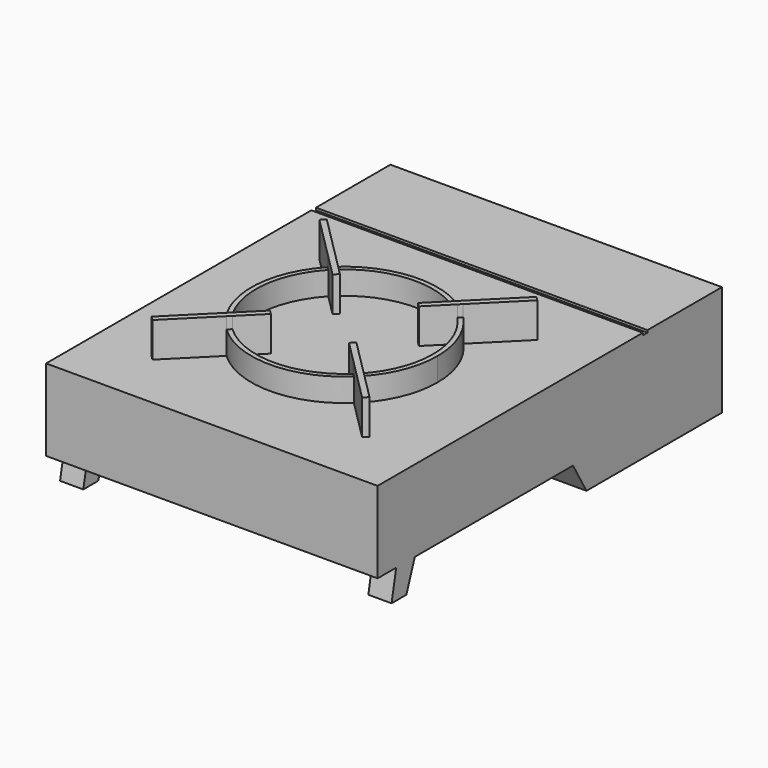
from build123d import *

# Parameters (mm, degrees)
F0_W      = 285
F0_H      = 370
F1_DEPTH  = 95
F2_W      = 285
F2_H      = 5
F3_DEPTH  = 2
F5_DEPTH  = 30
F6_DEPTH  = 20
F8_DEPTH  = 406
F9_W      = 245
F9_H      = 25
F10_DEPTH = 81


with BuildPart() as f1:
    # F0 (on Top) → F1 (new body)
    with BuildSketch(Plane.XY):
        with Locations((-142.5, 185)):
            Rectangle(F0_W, F0_H)
    extrude(amount=F1_DEPTH)

    # F2 (on face) → F3 (cut)
    with BuildSketch(Plane.XY.offset(95)):
        with Locations((-142.5, 287.5)):
            Rectangle(F2_W, F2_H)
    extrude(amount=-F3_DEPTH, mode=Mode.SUBTRACT)

    # F4 (on face) → F5 (join)
    with BuildSketch(Plane.XY.offset(95)):
        with BuildLine():
            Line((-232.6391152703, 48.8253508238), (-197.2731474365, 84.1913186575))
            ThreePointArc((-197.2731474365, 84.1913186575), (-199.0685424949, 85.9314575051), (-200.8086813425, 87.7268525635))
            Line((-200.8086813425, 87.7268525635), (-236.1746491762, 52.3608847297))
            Line((-236.1746491762, 52.3608847297), (-232.6391152703, 48.8253508238))
        make_face()
        with BuildLine():
            ThreePointArc((-200.8086813425, 87.7268525635), (-199.0685424949, 85.9314575051), (-197.2731474365, 84.1913186575))
            Line((-197.2731474365, 84.1913186575), (-194.4432654333, 87.0212006608))
            ThreePointArc((-194.4432654333, 87.0212006608), (-196.2401153702, 88.7598846298), (-197.9787993392, 90.5567345667))
            Line((-197.9787993392, 90.5567345667), (-200.8086813425, 87.7268525635))
        make_face()
        with BuildLine():
            ThreePointArc((-197.9787993392, 90.5567345667), (-196.2401153702, 88.7598846298), (-194.4432654333, 87.0212006608))
            Line((-194.4432654333, 87.0212006608), (-176.0875721064, 105.3768939877))
            Line((-176.0875721064, 105.3768939877), (-179.6231060123, 108.9124278936))
            Line((-179.6231060123, 108.9124278936), (-197.9787993392, 90.5567345667))
        make_face()
        with BuildLine():
            ThreePointArc((-90.5567345667, 87.0212006608), (-88.7598846298, 88.7598846298), (-87.0212006608, 90.5567345667))
            Line((-87.0212006608, 90.5567345667), (-105.3768939877, 108.9124278936))
            Line((-105.3768939877, 108.9124278936), (-108.9124278936, 105.3768939877))
            Line((-108.9124278936, 105.3768939877), (-90.5567345667, 87.0212006608))
        make_face()
        with BuildLine():
            ThreePointArc((-87.7268525635, 84.1913186575), (-85.9314575051, 85.9314575051), (-84.1913186575, 87.7268525635))
            Line((-84.1913186575, 87.7268525635), (-87.0212006608, 90.5567345667))
            ThreePointArc((-87.0212006608, 90.5567345667), (-88.7598846298, 88.7598846298), (-90.5567345667, 87.0212006608))
            Line((-90.5567345667, 87.0212006608), (-87.7268525635, 84.1913186575))
        make_face()
        with BuildLine():
            Line((-48.8253508238, 52.3608847297), (-84.1913186575, 87.7268525635))
            ThreePointArc((-84.1913186575, 87.7268525635), (-85.9314575051, 85.9314575051), (-87.7268525635, 84.1913186575))
            Line((-87.7268525635, 84.1913186575), (-52.3608847297, 48.8253508238))
            Line((-52.3608847297, 48.8253508238), (-48.8253508238, 52.3608847297))
        make_face()
        with BuildLine():
            ThreePointArc((-200.8086813425, 197.2731474365), (-199.0685424949, 199.0685424949), (-197.2731474365, 200.8086813425))
            Line((-197.2731474365, 200.8086813425), (-232.6391152703, 236.1746491762))
            Line((-232.6391152703, 236.1746491762), (-236.1746491762, 232.6391152703))
            Line((-236.1746491762, 232.6391152703), (-200.8086813425, 197.2731474365))
        make_face()
        with BuildLine():
            Line((-194.4432654333, 197.9787993392), (-197.2731474365, 200.8086813425))
            ThreePointArc((-197.2731474365, 200.8086813425), (-199.0685424949, 199.0685424949), (-200.8086813425, 197.2731474365))
            Line((-200.8086813425, 197.2731474365), (-197.9787993392, 194.4432654333))
            ThreePointArc((-197.9787993392, 194.4432654333), (-196.2401153702, 196.2401153702), (-194.4432654333, 197.9787993392))
        make_face()
        with BuildLine():
            Line((-176.0875721064, 179.6231060123), (-194.4432654333, 197.9787993392))
            ThreePointArc((-194.4432654333, 197.9787993392), (-196.2401153702, 196.2401153702), (-197.9787993392, 194.4432654333))
            Line((-197.9787993392, 194.4432654333), (-179.6231060123, 176.0875721064))
            Line((-179.6231060123, 176.0875721064), (-176.0875721064, 179.6231060123))
        make_face()
        with BuildLine():
            ThreePointArc((-87.7268525635, 200.8086813425), (-85.9314575051, 199.0685424949), (-84.1913186575, 197.2731474365))
            Line((-84.1913186575, 197.2731474365), (-48.8253508238, 232.6391152703))
            Line((-48.8253508238, 232.6391152703), (-52.3608847297, 236.1746491762))
            Line((-52.3608847297, 236.1746491762), (-87.7268525635, 200.8086813425))
        make_face()
        with BuildLine():
            Line((-87.0212006608, 194.4432654333), (-84.1913186575, 197.2731474365))
            ThreePointArc((-84.1913186575, 197.2731474365), (-85.9314575051, 199.0685424949), (-87.7268525635, 200.8086813425))
            Line((-87.7268525635, 200.8086813425), (-90.5567345667, 197.9787993392))
            ThreePointArc((-90.5567345667, 197.9787993392), (-88.7598846298, 196.2401153702), (-87.0212006608, 194.4432654333))
        make_face()
        with BuildLine():
            Line((-105.3768939877, 176.0875721064), (-87.0212006608, 194.4432654333))
            ThreePointArc((-87.0212006608, 194.4432654333), (-88.7598846298, 196.2401153702), (-90.5567345667, 197.9787993392))
            Line((-90.5567345667, 197.9787993392), (-108.9124278936, 179.6231060123))
            Line((-108.9124278936, 179.6231060123), (-105.3768939877, 176.0875721064))
        make_face()
    extrude(amount=F5_DEPTH)

    # F4 (on face) → F6 (join)
    with BuildSketch(Plane.XY.offset(95)):
        with BuildLine():
            ThreePointArc((-197.2731474365, 84.1913186575), (-142.5, 62.5), (-87.7268525635, 84.1913186575))
            Line((-87.7268525635, 84.1913186575), (-90.5567345667, 87.0212006608))
            ThreePointArc((-90.5567345667, 87.0212006608), (-142.5, 66.5), (-194.4432654333, 87.0212006608))
            Line((-194.4432654333, 87.0212006608), (-197.2731474365, 84.1913186575))
        make_face()
        with BuildLine():
            Line((-197.9787993392, 194.4432654333), (-200.8086813425, 197.2731474365))
            ThreePointArc((-200.8086813425, 197.2731474365), (-222.5, 142.5), (-200.8086813425, 87.7268525635))
            Line((-200.8086813425, 87.7268525635), (-197.9787993392, 90.5567345667))
            ThreePointArc((-197.9787993392, 90.5567345667), (-218.5, 142.5), (-197.9787993392, 194.4432654333))
        make_face()
        with BuildLine():
            Line((-90.5567345667, 197.9787993392), (-87.7268525635, 200.8086813425))
            ThreePointArc((-87.7268525635, 200.8086813425), (-142.5, 222.5), (-197.2731474365, 200.8086813425))
            Line((-197.2731474365, 200.8086813425), (-194.4432654333, 197.9787993392))
            ThreePointArc((-194.4432654333, 197.9787993392), (-142.5, 218.5), (-90.5567345667, 197.9787993392))
        make_face()
        with BuildLine():
            ThreePointArc((-84.1913186575, 87.7268525635), (-68.1202497067, 113.0440541435), (-62.5, 142.5))
            ThreePointArc((-62.5, 142.5), (-68.1202497067, 171.9559458565), (-84.1913186575, 197.2731474365))
            Line((-84.1913186575, 197.2731474365), (-87.0212006608, 194.4432654333))
            ThreePointArc((-87.0212006608, 194.4432654333), (-71.8162368369, 170.4250000019), (-66.5, 142.5))
            ThreePointArc((-66.5, 142.5), (-71.8162368369, 114.5749999981), (-87.0212006608, 90.5567345667))
            Line((-87.0212006608, 90.5567345667), (-84.1913186575, 87.7268525635))
        make_face()
    extrude(amount=F6_DEPTH)

    # F7 (on face) → F8 (cut)
    with BuildSketch(Plane.YZ):
        Polygon((0, 0), (15, 0), (20, 25), (0, 25), align=None)
        Polygon((40, 25), (30.9007441433, 0), (224.4337567297, 0), (210, 25), align=None)
    extrude(amount=-F8_DEPTH, mode=Mode.SUBTRACT)

    # F9 (on face) → F10 (cut)
    with BuildSketch(Plane.XZ):
        with Locations((-142.5, 12.5)):
            Rectangle(F9_W, F9_H)
    extrude(amount=-F10_DEPTH, mode=Mode.SUBTRACT)


solid = f1.part
